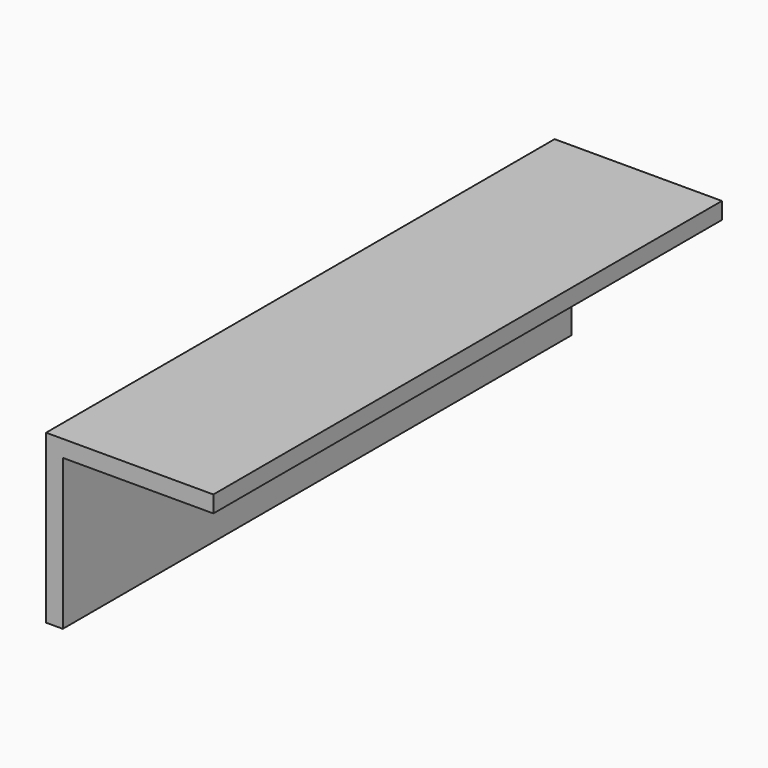
from build123d import *

# Parameters (mm, degrees)
F1_DEPTH = 190
F3_D     = 5


with BuildPart() as f1:
    # F0 (on Front) → F1 (new body)
    with BuildSketch(Plane.XZ):
        Polygon((0, 50), (0, 0), (5, 0), (5, 45), (50, 45), (50, 50), align=None)
    extrude(amount=F1_DEPTH)

    # F3 (through all)
    with Locations(Plane.YZ.offset(5)):
        with Locations((-155, 25), (-35, 25)):
            Hole(F3_D / 2)


solid = f1.part
